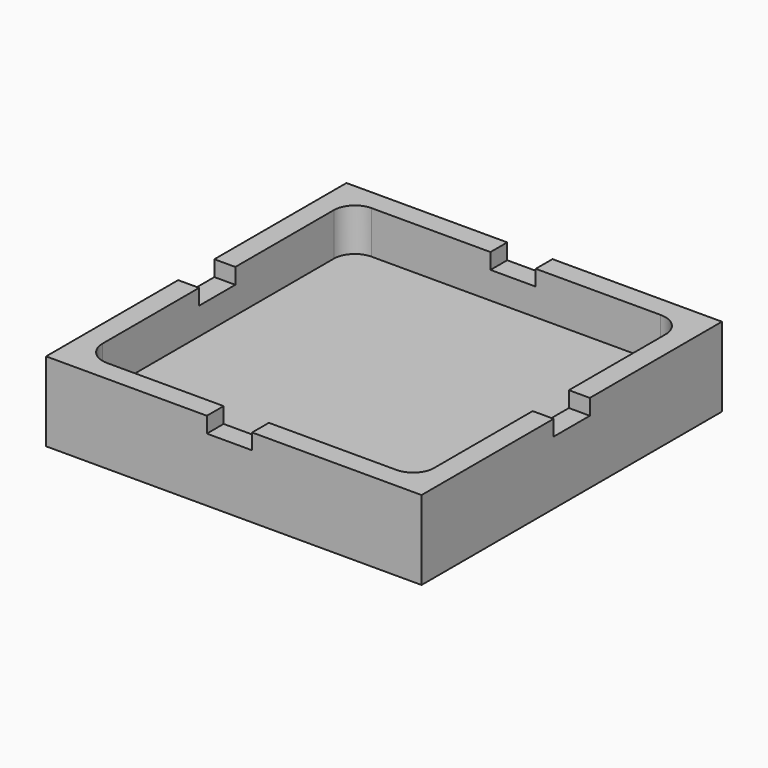
from build123d import *

# Parameters (mm, degrees)
F0_W     = 227.584
F0_H     = 227.584
F1_DEPTH = 48.006
F3_DEPTH = 25.908
F4_W     = 12.7
F4_H     = 27.432
F4_W_2   = 27.432
F4_H_2   = 12.7
F4_H_3   = 13.716
F5_DEPTH = 9.525


with BuildPart() as f1:
    # F0 (on Top) → F1 (new body)
    with BuildSketch(Plane.XY):
        Rectangle(F0_W, F0_H)
    extrude(amount=F1_DEPTH)

    # F2 (on face) → F3 (cut)
    with BuildSketch(Plane.XY.offset(48.006)):
        with BuildLine():
            Line((86.8045, 101.092), (-88.392, 101.092))
            ThreePointArc((-88.392, 101.092), (-97.372256, 97.372256), (-101.092, 88.392))
            Line((-101.092, 88.392), (-101.092, -86.8045))
            ThreePointArc((-101.092, -86.8045), (-96.907288, -96.907288), (-86.8045, -101.092))
            Line((-86.8045, -101.092), (88.392, -101.092))
            ThreePointArc((88.392, -101.092), (97.372256, -97.372256), (101.092, -88.392))
            Line((101.092, -88.392), (101.092, 86.8045))
            ThreePointArc((101.092, 86.8045), (96.907288, 96.907288), (86.8045, 101.092))
        make_face()
    extrude(amount=-F3_DEPTH, mode=Mode.SUBTRACT)

    # F4 (on face) → F5 (cut)
    with BuildSketch(Plane.XY.offset(48.006)):
        with Locations((-107.442, 0)):
            Rectangle(F4_W, F4_H)
        with Locations((-2.614738, 107.442)):
            Rectangle(F4_W_2, F4_H_2)
        with Locations((107.442, 6.858)):
            Rectangle(F4_W, F4_H_3)
        with Locations((107.442, -6.858)):
            Rectangle(F4_W, F4_H_3)
        with Locations((-2.614738, -107.442)):
            Rectangle(F4_W_2, F4_H_2)
    extrude(amount=-F5_DEPTH, mode=Mode.SUBTRACT)


solid = f1.part
